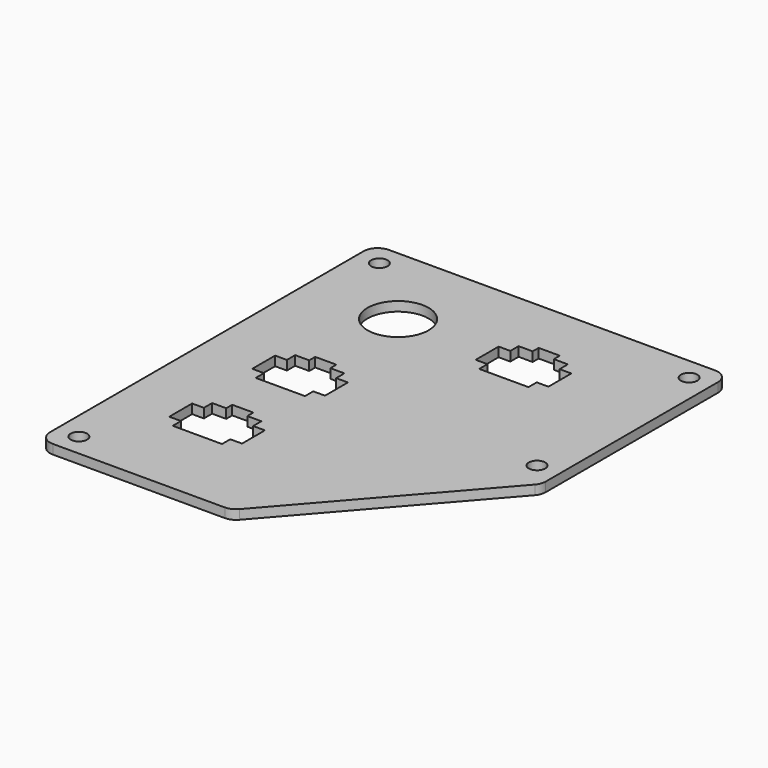
from build123d import *

# Parameters (mm, degrees)
F0_R     = 1.75
F2_DEPTH = 2
F1_W     = 4.5
F1_H     = 1.6
F1_W_2   = 2.5
F1_H_2   = 6.1
F1_R     = 6.5
F3_DEPTH = 2.001
F4_R     = 3


with BuildPart() as f2:
    # F0 (on Top) → F2 (new body)
    with BuildSketch(Plane.XY):
        Polygon((38.288459, 48.664646), (-37.211541, 48.664646), (-37.211541, -40.835354), (3.788459, -40.835354), (38.288459, -1.335354), align=None)
        with Locations((-32.461541, -36.085354)):
            Circle(F0_R, mode=Mode.SUBTRACT)
        with Locations((33.538459, 3.414646)):
            Circle(F0_R, mode=Mode.SUBTRACT)
        with Locations((-32.461541, 43.914646)):
            Circle(F0_R, mode=Mode.SUBTRACT)
        with Locations((33.538459, 43.914646)):
            Circle(F0_R, mode=Mode.SUBTRACT)
    extrude(amount=F2_DEPTH)

    # F1 (on Top) → F3 (cut, through all)
    with BuildSketch(Plane.XY):
        Polygon((-12.211541, 7.114646), (-12.211541, 9.314646), (-15.211541, 9.314646), (-19.711541, 9.314646), (-22.711541, 9.314646), (-22.711541, 7.114646), (-22.711541, 1.014646), (-22.711541, -1.185354), (-12.211541, -1.185354), (-12.211541, 1.014646), align=None)
        with Locations((-17.461541, 10.114646)):
            Rectangle(F1_W, F1_H)
        with Locations((-10.961541, 4.064646)):
            Rectangle(F1_W_2, F1_H_2)
        with Locations((-23.961541, 4.064646)):
            Rectangle(F1_W_2, F1_H_2)
        Polygon((14.788459, 32.864646), (14.788459, 35.064646), (11.788459, 35.064646), (7.288459, 35.064646), (4.288459, 35.064646), (4.288459, 32.864646), (4.288459, 26.764646), (4.288459, 24.564646), (14.788459, 24.564646), (14.788459, 26.764646), align=None)
        with Locations((9.538459, 35.864646)):
            Rectangle(F1_W, F1_H)
        with Locations((16.038459, 29.814646)):
            Rectangle(F1_W_2, F1_H_2)
        with Locations((3.038459, 29.814646)):
            Rectangle(F1_W_2, F1_H_2)
        Polygon((-12.211541, -14.985354), (-12.211541, -12.785354), (-15.211541, -12.785354), (-19.711541, -12.785354), (-22.711541, -12.785354), (-22.711541, -14.985354), (-22.711541, -21.085354), (-22.711541, -23.285354), (-12.211541, -23.285354), (-12.211541, -21.085354), align=None)
        with Locations((-17.461541, -11.985354)):
            Rectangle(F1_W, F1_H)
        with Locations((-10.961541, -18.035354)):
            Rectangle(F1_W_2, F1_H_2)
        with Locations((-23.961541, -18.035354)):
            Rectangle(F1_W_2, F1_H_2)
        with Locations((-17.461541, 30.164646)):
            Circle(F1_R)
    extrude(amount=F3_DEPTH, mode=Mode.SUBTRACT)

    # F4
    f4_edges = [f2.edges().sort_by_distance(p)[0] for p in [
        (-37.211541, 48.664646, 1),
        (38.288459, 48.664646, 1),
        (38.288459, -1.335354, 1),
        (3.788459, -40.835354, 1),
        (-37.211541, -40.835354, 1),
    ]]
    fillet(f4_edges, radius=F4_R)


solid = f2.part
